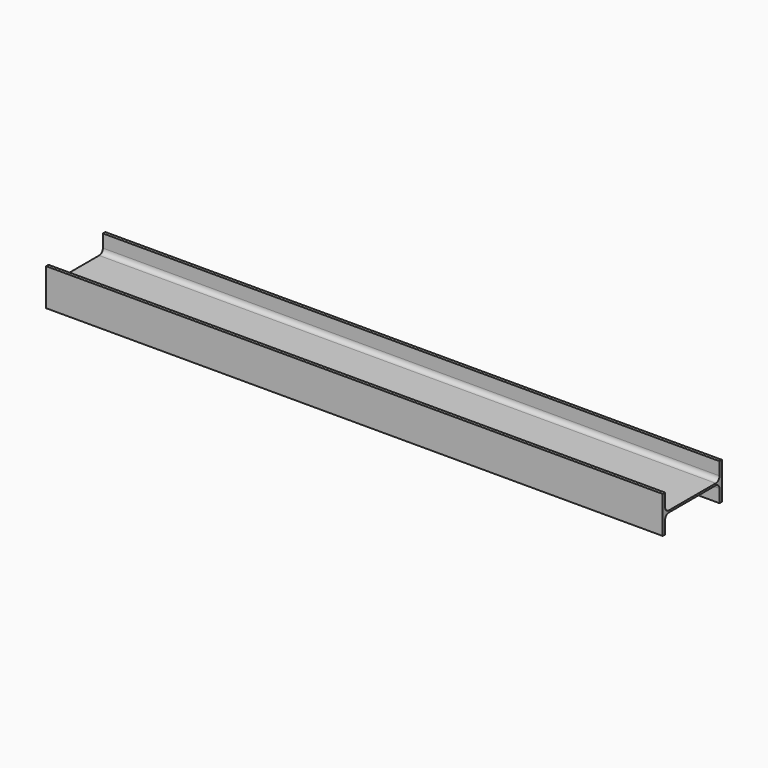
from build123d import *

# Parameters (mm, degrees)
F1_DEPTH = 1000


with BuildPart() as f1:
    # F0 (on Right) → F1 (new body, symmetric)
    with BuildSketch(Plane.YZ):
        with BuildLine():
            Line((120, -60), (120, 60))
            Line((120, 60), (110.2, 60))
            Line((110.2, 60), (110.2, 18.1))
            ThreePointArc((110.2, 18.1), (105.806602, 7.493398), (95.2, 3.1))
            Line((95.2, 3.1), (-95.2, 3.1))
            ThreePointArc((-95.2, 3.1), (-105.806602, 7.493398), (-110.2, 18.1))
            Line((-110.2, 18.1), (-110.2, 60))
            Line((-110.2, 60), (-120, 60))
            Line((-120, 60), (-120, -60))
            Line((-120, -60), (-110.2, -60))
            Line((-110.2, -60), (-110.2, -18.1))
            ThreePointArc((-110.2, -18.1), (-105.806602, -7.493398), (-95.2, -3.1))
            Line((-95.2, -3.1), (95.2, -3.1))
            ThreePointArc((95.2, -3.1), (105.806602, -7.493398), (110.2, -18.1))
            Line((110.2, -18.1), (110.2, -60))
            Line((110.2, -60), (120, -60))
        make_face()
    extrude(amount=F1_DEPTH, both=True)


solid = f1.part
